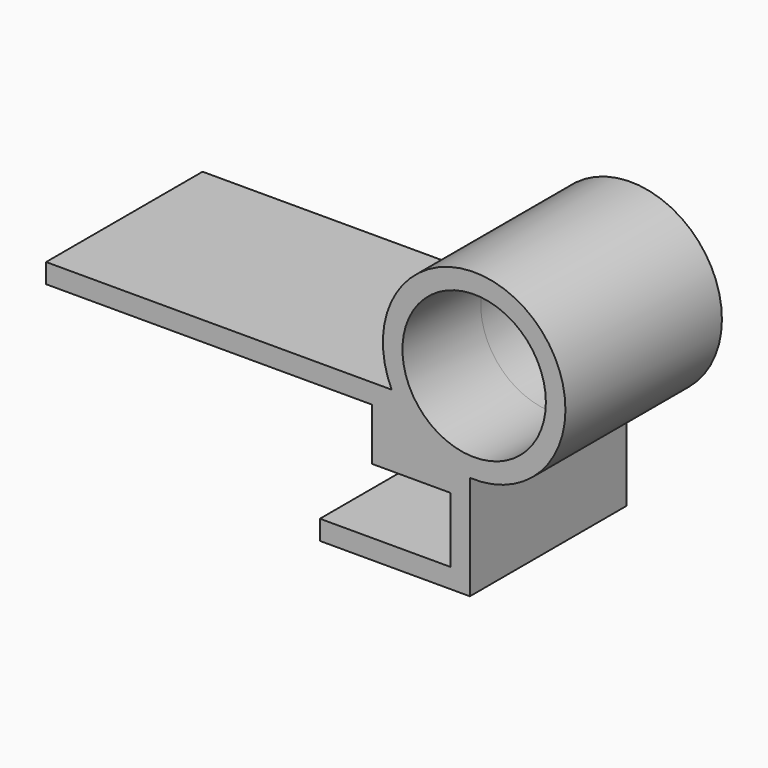
from build123d import *

# Parameters (mm, degrees)
F0_W          = 50
F0_H          = 3
F0_W_2        = 3
F0_R          = 11
F0_W_3        = 9
F0_H_2        = 10
F1_DEPTH      = 15
F1_DEPTH_BACK = 15


with BuildPart() as f1:
    # F0 (on Front) → F1 (new body, two sides)
    with BuildSketch(Plane.XZ) as f1_sk:
        with Locations((25, 1.5)):
            Rectangle(F0_W, F0_H)
        Polygon((50, 3), (50, 0), (50, -5), (53, -5), (53, 3), align=None)
        with Locations((51.5, -6.5)):
            Rectangle(F0_W_2, F0_H)
        with BuildLine():
            ThreePointArc((65, -5), (57.8905996075, -2.6641005887), (53, 3))
            Line((53, 3), (53, -5))
            Line((53, -5), (62, -5))
            Line((62, -5), (65, -5))
        make_face()
        with BuildLine():
            ThreePointArc((79.6564023547, 8.9846035321), (62.5896151894, 22.6445748528), (53, 3))
            ThreePointArc((53, 3), (57.8905996075, -2.6641005887), (65, -5))
            ThreePointArc((65, -5), (75.3210380704, -1.1443064035), (79.6564023547, 8.9846035321))
        make_face()
        with Locations((65.6564023547, 8.9846035321)):
            Circle(F0_R, mode=Mode.SUBTRACT)
        with Locations((57.5, -6.5)):
            Rectangle(F0_W_3, F0_H)
        with Locations((63.5, -6.5)):
            Rectangle(F0_W_2, F0_H)
        with Locations((63.5, -13)):
            Rectangle(F0_W_2, F0_H_2)
        Polygon((65, -21), (65, -18), (62, -18), (42, -18), (42, -21), align=None)
    extrude(amount=F1_DEPTH)
    extrude(f1_sk.sketch, amount=-F1_DEPTH_BACK)


solid = f1.part
